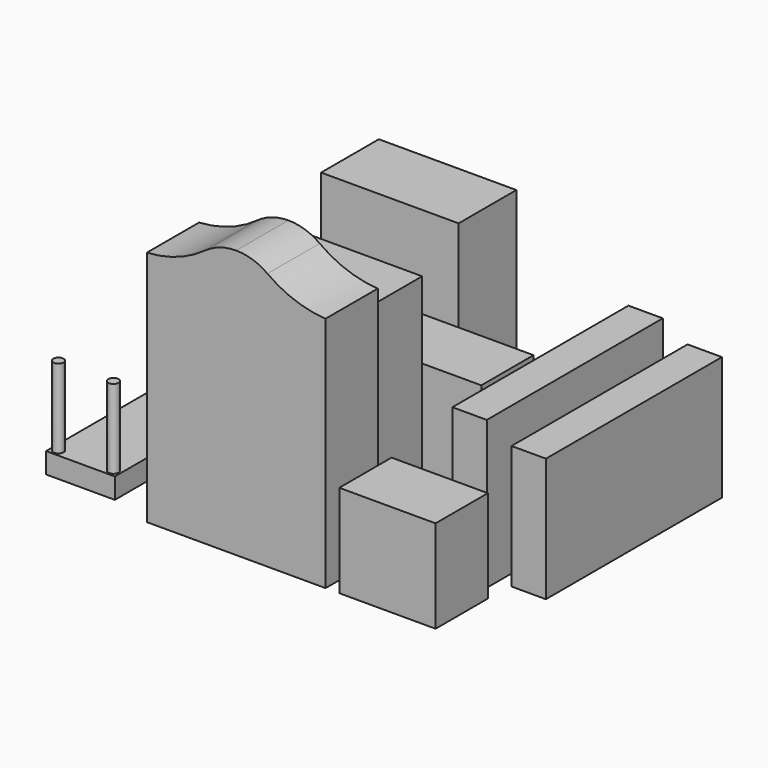
from build123d import *

# Parameters (mm, degrees)
F1_DEPTH  = 914.4
F2_DEPTH  = 1549.4
F3_DEPTH  = 1752.6
F5_DEPTH  = 482.6
F0_W      = 1016
F0_H      = 533.4
F6_DEPTH  = 1524
F0_W_2    = 711.2
F0_H_2    = 482.6
F7_DEPTH  = 685.8
F0_W_3    = 254
F0_H_3    = 1625.6
F8_DEPTH  = 1092.2
F9_DEPTH  = 914.4
F0_W_4    = 508
F0_H_4    = 990.6
F0_R      = 38.1
F10_DEPTH = 152.4
F11_DEPTH = 736.6


with BuildPart() as f1:
    # F0 (on Top) → F1 (new body)
    with BuildSketch(Plane.XY):
        Polygon((876.3, 482.6), (-876.3, 482.6), (-876.3, 0), (0, 0), (876.3, 0), align=None)
    extrude(amount=F1_DEPTH)


with BuildPart() as f2:
    # F0 (on Top) → F2 (new body)
    with BuildSketch(Plane.XY):
        Polygon((520.7, -101.6), (0, -101.6), (-520.7, -101.6), (-520.7, -584.2), (0, -584.2), (520.7, -584.2), align=None)
    extrude(amount=F2_DEPTH)


with BuildPart() as f3:
    # F0 (on Top) → F3 (new body)
    with BuildSketch(Plane.XY):
        Polygon((660.4, -685.8), (0, -685.8), (-660.4, -685.8), (-660.4, -1168.4), (660.4, -1168.4), align=None)
    extrude(amount=F3_DEPTH)

    # F4 (on face) → F5 (join, through all)
    with BuildSketch(Plane.XZ.offset(1168.4)):
        with BuildLine():
            ThreePointArc((-230.926639, 1906.044583), (-434.611541, 1798.389661), (-660.4, 1752.6))
            Line((-660.4, 1752.6), (0, 1752.6))
            Line((0, 1752.6), (0, 1981.2))
            ThreePointArc((0, 1981.2), (-121.424307, 1961.938347), (-230.926639, 1906.044583))
        make_face()
        with BuildLine():
            Line((0, 1981.2), (0, 1752.6))
            Line((0, 1752.6), (660.4, 1752.6))
            ThreePointArc((660.4, 1752.6), (434.611541, 1798.389661), (230.926639, 1906.044583))
            ThreePointArc((230.926639, 1906.044583), (121.424307, 1961.938347), (0, 1981.2))
        make_face()
    extrude(amount=-F5_DEPTH)


with BuildPart() as f6:
    # F0 (on Top) → F6 (new body)
    with BuildSketch(Plane.XY):
        with Locations((-266.7, 850.9)):
            Rectangle(F0_W, F0_H)
    extrude(amount=F6_DEPTH)


with BuildPart() as f7:
    # F0 (on Top) → F7 (new body)
    with BuildSketch(Plane.XY):
        with Locations((1117.6, -927.1)):
            Rectangle(F0_W_2, F0_H_2)
    extrude(amount=F7_DEPTH)


with BuildPart() as f8:
    # F0 (on Top) → F8 (new body)
    with BuildSketch(Plane.XY):
        with Locations((1257.3, 228.6)):
            Rectangle(F0_W_3, F0_H_3)
    extrude(amount=F8_DEPTH)


with BuildPart() as f9:
    # F0 (on Top) → F9 (new body)
    with BuildSketch(Plane.XY):
        with Locations((1612.9, 330.2)):
            Rectangle(F0_W_3, F0_H_3)
    extrude(amount=F9_DEPTH)


with BuildPart() as f10:
    # F0 (on Top) → F10 (new body)
    with BuildSketch(Plane.XY):
        with Locations((-1231.9, -571.5)):
            Rectangle(F0_W_4, F0_H_4)
        with Locations((-1435.1, -1016)):
            Circle(F0_R, mode=Mode.SUBTRACT)
        with BuildLine():
            ThreePointArc((-990.6, -1016), (-1028.7, -1054.1), (-1066.8, -1016))
            ThreePointArc((-1066.8, -1016), (-1028.7, -977.9), (-990.6, -1016))
        make_face(mode=Mode.SUBTRACT)
        with Locations((-1435.1, -127)):
            Circle(F0_R, mode=Mode.SUBTRACT)
        with BuildLine():
            ThreePointArc((-990.6, -127), (-1028.7, -165.1), (-1066.8, -127))
            ThreePointArc((-1066.8, -127), (-1028.7, -88.9), (-990.6, -127))
        make_face(mode=Mode.SUBTRACT)
    extrude(amount=F10_DEPTH)

    # F0 (on Top) → F11 (join)
    with BuildSketch(Plane.XY):
        with Locations((-1435.1, -127)):
            Circle(F0_R)
        with BuildLine():
            ThreePointArc((-990.6, -127), (-1028.7, -88.9), (-1066.8, -127))
            ThreePointArc((-1066.8, -127), (-1028.7, -165.1), (-990.6, -127))
        make_face()
        with BuildLine():
            ThreePointArc((-990.6, -1016), (-1028.7, -977.9), (-1066.8, -1016))
            ThreePointArc((-1066.8, -1016), (-1028.7, -1054.1), (-990.6, -1016))
        make_face()
        with Locations((-1435.1, -1016)):
            Circle(F0_R)
    extrude(amount=F11_DEPTH)


solid = Compound([f1.part, f2.part, f3.part, f6.part, f7.part, f8.part, f9.part, f10.part])
